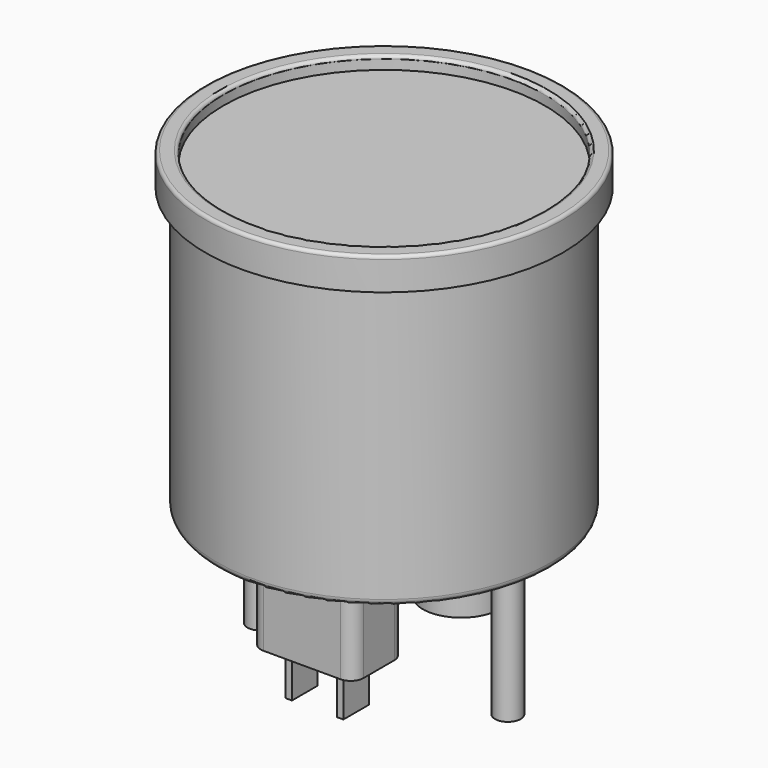
from build123d import *

# Parameters (mm, degrees)
F0_R      = 27.8
F0_R_2    = 25
F1_DEPTH  = 5
F2_R      = 25
F3_DEPTH  = 3
F4_R      = 26
F5_DEPTH  = 44
F6_R      = 1
F7_R      = 2
F8_DEPTH  = 22
F10_DEPTH = 15
F11_R     = 6
F12_DEPTH = 18
F13_W     = 1
F13_H     = 5
F14_DEPTH = 7
F15_R     = 0.5


with BuildPart() as f1:
    # F0 (on Top) → F1 (new body)
    with BuildSketch(Plane.XY):
        Circle(F0_R)
        Circle(F0_R_2, mode=Mode.SUBTRACT)
    extrude(amount=F1_DEPTH)

    # F4 (on face) → F5 (join)
    with BuildSketch(Plane(origin=(0, 0, 0), x_dir=(1, 0, 0), z_dir=(0, 0, -1))):
        Circle(F4_R)
    extrude(amount=F5_DEPTH)

    # F6
    f6_edges = [f1.edges().sort_by_distance(p)[0] for p in [
        (-26, 0, -44),
    ]]
    fillet(f6_edges, radius=F6_R)

    # F15
    f15_edges = [f1.edges().sort_by_distance(p)[0] for p in [
        (-27.8, 0, 5),
        (-25, 0, 5),
    ]]
    fillet(f15_edges, radius=F15_R)


with BuildPart() as f3:
    # F2 (on Top) → F3 (new body)
    with BuildSketch(Plane.XY):
        Circle(F2_R)
    extrude(amount=F3_DEPTH)


with BuildPart() as f8:
    # F7 (on face) → F8 (new body)
    with BuildSketch(Plane(origin=(0, 0, -44), x_dir=(1, 0, 0), z_dir=(0, 0, -1))):
        with Locations((-19.25, 0)):
            Circle(F7_R)
    extrude(amount=F8_DEPTH)


with BuildPart() as f8b:
    # F7 (on face) → F8, piece 2 (new body)
    with BuildSketch(Plane(origin=(0, 0, -44), x_dir=(1, 0, 0), z_dir=(0, 0, -1))):
        with Locations((19.25, 0)):
            Circle(F7_R)
    extrude(amount=F8_DEPTH)


with BuildPart() as f10:
    # F9 (on face) → F10 (new body)
    with BuildSketch(Plane(origin=(0, 0, -44), x_dir=(1, 0, 0), z_dir=(0, 0, -1))):
        with BuildLine():
            Line((-5.9, 6.0043991543), (6, 6.0043991543))
            ThreePointArc((6, 6.0043991543), (7.4142135624, 6.590185592), (8, 8.0043991543))
            Line((8, 8.0043991543), (8, 13.9956008457))
            ThreePointArc((8, 13.9956008457), (7.4142135624, 15.409814408), (6, 15.9956008457))
            Line((6, 15.9956008457), (-6, 15.9956008457))
            ThreePointArc((-6, 15.9956008457), (-7.4142135624, 15.409814408), (-8, 13.9956008457))
            Line((-8, 13.9956008457), (-8, 8.1043991543))
            ThreePointArc((-8, 8.1043991543), (-7.3849242405, 6.6194749138), (-5.9, 6.0043991543))
        make_face()
    extrude(amount=F10_DEPTH)

    # F13 (on face) → F14 (join)
    with BuildSketch(Plane(origin=(0, 0, -59), x_dir=(1, 0, 0), z_dir=(0, 0, -1))):
        with Locations((-4, 11.05)):
            Rectangle(F13_W, F13_H)
        with Locations((4, 11.05)):
            Rectangle(F13_W, F13_H)
    extrude(amount=F14_DEPTH)


with BuildPart() as f12:
    # F11 (on face) → F12 (new body)
    with BuildSketch(Plane(origin=(0, 0, -44), x_dir=(1, 0, 0), z_dir=(0, 0, -1))):
        with Locations((0, -15)):
            Circle(F11_R)
    extrude(amount=F12_DEPTH)


solid = Compound([f1.part, f3.part, f8.part, f8b.part, f10.part, f12.part])
